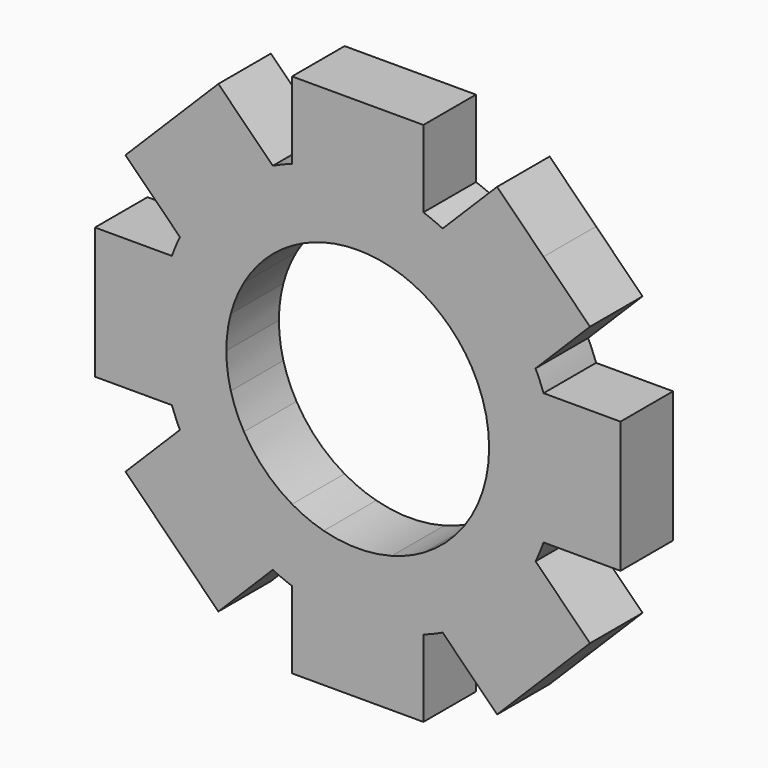
from build123d import *

# Parameters (mm, degrees)
F1_DEPTH = 6.35


with BuildPart() as f1:
    # F0 (on Front) → F1 (new body)
    with BuildSketch(Plane.XZ):
        with BuildLine():
            Line((-25.4, 0), (-19.05, 0))
            ThreePointArc((-19.05, 0), (-18.7756525614, 3.2213926947), (-17.9605122421, 6.35))
            Line((-17.9605122421, 6.35), (-25.4, 6.35))
            Line((-25.4, 6.35), (-25.4, 0))
        make_face()
        with BuildLine():
            ThreePointArc((-17.9605122421, -6.35), (-18.7756525614, -3.2213926947), (-19.05, 0))
            Line((-19.05, 0), (-25.4, 0))
            Line((-25.4, 0), (-25.4, -6.35))
            Line((-25.4, -6.35), (-17.9605122421, -6.35))
        make_face()
        with BuildLine():
            Line((-19.05, 0), (-12.7, 0))
            ThreePointArc((-12.7, 0), (-12.5913497394, 1.6576826412), (-12.2672579939, 3.2870018728))
            Line((-12.2672579939, 3.2870018728), (-15.3302561211, 6.35))
            Line((-15.3302561211, 6.35), (-17.9605122421, 6.35))
            ThreePointArc((-17.9605122421, 6.35), (-18.7756525614, 3.2213926947), (-19.05, 0))
        make_face()
        with BuildLine():
            ThreePointArc((-12.2672579939, -3.2870018728), (-12.5913497394, -1.6576826412), (-12.7, 0))
            Line((-12.7, 0), (-19.05, 0))
            ThreePointArc((-19.05, 0), (-18.7756525614, -3.2213926947), (-17.9605122421, -6.35))
            Line((-17.9605122421, -6.35), (-15.3302561211, -6.35))
            Line((-15.3302561211, -6.35), (-12.2672579939, -3.2870018728))
        make_face()
        with BuildLine():
            ThreePointArc((-17.1901280605, 8.2098719395), (-15.5542598667, 10.9985226281), (-13.4703841816, 13.4703841816))
            Line((-13.4703841816, 13.4703841816), (-17.9605122421, 17.9605122421))
            Line((-17.9605122421, 17.9605122421), (-22.4506403027, 13.4703841816))
            Line((-22.4506403027, 13.4703841816), (-17.1901280605, 8.2098719395))
        make_face()
        with BuildLine():
            Line((-17.9605122421, 17.9605122421), (-13.4703841816, 13.4703841816))
            ThreePointArc((-13.4703841816, 13.4703841816), (-10.9985226281, 15.5542598667), (-8.2098719395, 17.1901280605))
            Line((-8.2098719395, 17.1901280605), (-13.4703841816, 22.4506403027))
            Line((-13.4703841816, 22.4506403027), (-17.9605122421, 17.9605122421))
        make_face()
        with BuildLine():
            Line((-13.4703841816, 13.4703841816), (-8.9802561211, 8.9802561211))
            ThreePointArc((-8.9802561211, 8.9802561211), (-7.7312701484, 10.0755874217), (-6.35, 10.9985226281))
            Line((-6.35, 10.9985226281), (-6.35, 15.3302561211))
            Line((-6.35, 15.3302561211), (-8.2098719395, 17.1901280605))
            ThreePointArc((-8.2098719395, 17.1901280605), (-10.9985226281, 15.5542598667), (-13.4703841816, 13.4703841816))
        make_face()
        with BuildLine():
            ThreePointArc((-10.9985226281, 6.35), (-10.0755874217, 7.7312701484), (-8.9802561211, 8.9802561211))
            Line((-8.9802561211, 8.9802561211), (-13.4703841816, 13.4703841816))
            ThreePointArc((-13.4703841816, 13.4703841816), (-15.5542598667, 10.9985226281), (-17.1901280605, 8.2098719395))
            Line((-17.1901280605, 8.2098719395), (-15.3302561211, 6.35))
            Line((-15.3302561211, 6.35), (-10.9985226281, 6.35))
        make_face()
        with BuildLine():
            ThreePointArc((-3.2870018728, 12.2672579939), (-1.6576826412, 12.5913497394), (0, 12.7))
            Line((0, 12.7), (0, 19.05))
            ThreePointArc((0, 19.05), (-3.2213926947, 18.7756525614), (-6.35, 17.9605122421))
            Line((-6.35, 17.9605122421), (-6.35, 15.3302561211))
            Line((-6.35, 15.3302561211), (-3.2870018728, 12.2672579939))
        make_face()
        with BuildLine():
            ThreePointArc((-6.35, 17.9605122421), (-3.2213926947, 18.7756525614), (0, 19.05))
            Line((0, 19.05), (0, 25.4))
            Line((0, 25.4), (-6.35, 25.4))
            Line((-6.35, 25.4), (-6.35, 17.9605122421))
        make_face()
        with BuildLine():
            Line((-6.35, 15.3302561211), (-6.35, 10.9985226281))
            ThreePointArc((-6.35, 10.9985226281), (-4.860079591, 11.7332700629), (-3.2870018728, 12.2672579939))
            Line((-3.2870018728, 12.2672579939), (-6.35, 15.3302561211))
        make_face()
        with BuildLine():
            ThreePointArc((0, 19.05), (3.2213926947, 18.7756525614), (6.35, 17.9605122421))
            Line((6.35, 17.9605122421), (6.35, 25.4))
            Line((6.35, 25.4), (0, 25.4))
            Line((0, 25.4), (0, 19.05))
        make_face()
        with BuildLine():
            Line((-8.2098719395, 17.1901280605), (-6.35, 15.3302561211))
            Line((-6.35, 15.3302561211), (-6.35, 17.9605122421))
            ThreePointArc((-6.35, 17.9605122421), (-7.2901193866, 17.5999050943), (-8.2098719395, 17.1901280605))
        make_face()
        with BuildLine():
            Line((-17.9605122421, 6.35), (-15.3302561211, 6.35))
            Line((-15.3302561211, 6.35), (-17.1901280605, 8.2098719395))
            ThreePointArc((-17.1901280605, 8.2098719395), (-17.5999050943, 7.2901193866), (-17.9605122421, 6.35))
        make_face()
        with BuildLine():
            ThreePointArc((0, 12.7), (1.6576826412, 12.5913497394), (3.2870018728, 12.2672579939))
            Line((3.2870018728, 12.2672579939), (6.35, 15.3302561211))
            Line((6.35, 15.3302561211), (6.35, 17.9605122421))
            ThreePointArc((6.35, 17.9605122421), (3.2213926947, 18.7756525614), (0, 19.05))
            Line((0, 19.05), (0, 12.7))
        make_face()
        with BuildLine():
            Line((6.35, 17.9605122421), (6.35, 15.3302561211))
            Line((6.35, 15.3302561211), (8.2098719395, 17.1901280605))
            ThreePointArc((8.2098719395, 17.1901280605), (7.2901193866, 17.5999050943), (6.35, 17.9605122421))
        make_face()
        with BuildLine():
            ThreePointArc((3.2870018728, 12.2672579939), (4.860079591, 11.7332700629), (6.35, 10.9985226281))
            Line((6.35, 10.9985226281), (6.35, 15.3302561211))
            Line((6.35, 15.3302561211), (3.2870018728, 12.2672579939))
        make_face()
        with BuildLine():
            ThreePointArc((6.35, 10.9985226281), (7.7312701484, 10.0755874217), (8.9802561211, 8.9802561211))
            Line((8.9802561211, 8.9802561211), (13.4703841816, 13.4703841816))
            ThreePointArc((13.4703841816, 13.4703841816), (10.9985226281, 15.5542598667), (8.2098719395, 17.1901280605))
            Line((8.2098719395, 17.1901280605), (6.35, 15.3302561211))
            Line((6.35, 15.3302561211), (6.35, 10.9985226281))
        make_face()
        with BuildLine():
            ThreePointArc((8.2098719395, 17.1901280605), (10.9985226281, 15.5542598667), (13.4703841816, 13.4703841816))
            Line((13.4703841816, 13.4703841816), (17.9605122421, 17.9605122421))
            Line((17.9605122421, 17.9605122421), (13.4703841816, 22.4506403027))
            Line((13.4703841816, 22.4506403027), (8.2098719395, 17.1901280605))
        make_face()
        with BuildLine():
            Line((17.9605122421, 17.9605122421), (13.4703841816, 13.4703841816))
            ThreePointArc((13.4703841816, 13.4703841816), (15.5542598667, 10.9985226281), (17.1901280605, 8.2098719395))
            Line((17.1901280605, 8.2098719395), (22.4506403027, 13.4703841816))
            Line((22.4506403027, 13.4703841816), (17.9605122421, 17.9605122421))
        make_face()
        with BuildLine():
            ThreePointArc((8.9802561211, 8.9802561211), (10.0755874217, 7.7312701484), (10.9985226281, 6.35))
            Line((10.9985226281, 6.35), (15.3302561211, 6.35))
            Line((15.3302561211, 6.35), (17.1901280605, 8.2098719395))
            ThreePointArc((17.1901280605, 8.2098719395), (15.5542598667, 10.9985226281), (13.4703841816, 13.4703841816))
            Line((13.4703841816, 13.4703841816), (8.9802561211, 8.9802561211))
        make_face()
        with BuildLine():
            ThreePointArc((10.9985226281, 6.35), (12.2672579939, 3.2870018728), (12.7, 0))
            Line((12.7, 0), (19.05, 0))
            ThreePointArc((19.05, 0), (18.7756525614, 3.2213926947), (17.9605122421, 6.35))
            Line((17.9605122421, 6.35), (15.3302561211, 6.35))
            Line((15.3302561211, 6.35), (10.9985226281, 6.35))
        make_face()
        with BuildLine():
            ThreePointArc((17.9605122421, 6.35), (18.7756525614, 3.2213926947), (19.05, 0))
            Line((19.05, 0), (25.4, 0))
            Line((25.4, 0), (25.4, 6.35))
            Line((25.4, 6.35), (17.9605122421, 6.35))
        make_face()
        with BuildLine():
            Line((17.1901280605, 8.2098719395), (15.3302561211, 6.35))
            Line((15.3302561211, 6.35), (17.9605122421, 6.35))
            ThreePointArc((17.9605122421, 6.35), (17.5999050943, 7.2901193866), (17.1901280605, 8.2098719395))
        make_face()
        with BuildLine():
            Line((25.4, 0), (19.05, 0))
            ThreePointArc((19.05, 0), (18.7756525614, -3.2213926947), (17.9605122421, -6.35))
            Line((17.9605122421, -6.35), (25.4, -6.35))
            Line((25.4, -6.35), (25.4, 0))
        make_face()
        with BuildLine():
            Line((19.05, 0), (12.7, 0))
            ThreePointArc((12.7, 0), (12.2672579939, -3.2870018728), (10.9985226281, -6.35))
            Line((10.9985226281, -6.35), (15.3302561211, -6.35))
            Line((15.3302561211, -6.35), (17.9605122421, -6.35))
            ThreePointArc((17.9605122421, -6.35), (18.7756525614, -3.2213926947), (19.05, 0))
        make_face()
        with BuildLine():
            Line((15.3302561211, -6.35), (10.9985226281, -6.35))
            ThreePointArc((10.9985226281, -6.35), (8.9802561211, -8.9802561211), (6.35, -10.9985226281))
            Line((6.35, -10.9985226281), (6.35, -15.3302561211))
            Line((6.35, -15.3302561211), (8.2098719395, -17.1901280605))
            ThreePointArc((8.2098719395, -17.1901280605), (13.4703841816, -13.4703841816), (17.1901280605, -8.2098719395))
            Line((17.1901280605, -8.2098719395), (15.3302561211, -6.35))
        make_face()
        with BuildLine():
            Line((22.4506403027, -13.4703841816), (17.1901280605, -8.2098719395))
            ThreePointArc((17.1901280605, -8.2098719395), (13.4703841816, -13.4703841816), (8.2098719395, -17.1901280605))
            Line((8.2098719395, -17.1901280605), (13.4703841816, -22.4506403027))
            Line((13.4703841816, -22.4506403027), (17.9605122421, -17.9605122421))
            Line((17.9605122421, -17.9605122421), (22.4506403027, -13.4703841816))
        make_face()
        with BuildLine():
            Line((6.35, -15.3302561211), (3.2870018728, -12.2672579939))
            ThreePointArc((3.2870018728, -12.2672579939), (0, -12.7), (-3.2870018728, -12.2672579939))
            Line((-3.2870018728, -12.2672579939), (-6.35, -15.3302561211))
            Line((-6.35, -15.3302561211), (-6.35, -17.9605122421))
            ThreePointArc((-6.35, -17.9605122421), (0, -19.05), (6.35, -17.9605122421))
            Line((6.35, -17.9605122421), (6.35, -15.3302561211))
        make_face()
        with BuildLine():
            Line((-6.35, -15.3302561211), (-6.35, -10.9985226281))
            ThreePointArc((-6.35, -10.9985226281), (-8.9802561211, -8.9802561211), (-10.9985226281, -6.35))
            Line((-10.9985226281, -6.35), (-15.3302561211, -6.35))
            Line((-15.3302561211, -6.35), (-17.1901280605, -8.2098719395))
            ThreePointArc((-17.1901280605, -8.2098719395), (-13.4703841816, -13.4703841816), (-8.2098719395, -17.1901280605))
            Line((-8.2098719395, -17.1901280605), (-6.35, -15.3302561211))
        make_face()
        with BuildLine():
            Line((-13.4703841816, -22.4506403027), (-8.2098719395, -17.1901280605))
            ThreePointArc((-8.2098719395, -17.1901280605), (-13.4703841816, -13.4703841816), (-17.1901280605, -8.2098719395))
            Line((-17.1901280605, -8.2098719395), (-22.4506403027, -13.4703841816))
            Line((-22.4506403027, -13.4703841816), (-13.4703841816, -22.4506403027))
        make_face()
        with BuildLine():
            Line((6.35, -25.4), (6.35, -17.9605122421))
            ThreePointArc((6.35, -17.9605122421), (0, -19.05), (-6.35, -17.9605122421))
            Line((-6.35, -17.9605122421), (-6.35, -25.4))
            Line((-6.35, -25.4), (0, -25.4))
            Line((0, -25.4), (6.35, -25.4))
        make_face()
        with BuildLine():
            Line((6.35, -15.3302561211), (6.35, -10.9985226281))
            ThreePointArc((6.35, -10.9985226281), (4.860079591, -11.7332700629), (3.2870018728, -12.2672579939))
            Line((3.2870018728, -12.2672579939), (6.35, -15.3302561211))
        make_face()
        with BuildLine():
            Line((-6.35, -15.3302561211), (-3.2870018728, -12.2672579939))
            ThreePointArc((-3.2870018728, -12.2672579939), (-4.860079591, -11.7332700629), (-6.35, -10.9985226281))
            Line((-6.35, -10.9985226281), (-6.35, -15.3302561211))
        make_face()
        with BuildLine():
            ThreePointArc((-10.9985226281, -6.35), (-11.7332700629, -4.860079591), (-12.2672579939, -3.2870018728))
            Line((-12.2672579939, -3.2870018728), (-15.3302561211, -6.35))
            Line((-15.3302561211, -6.35), (-10.9985226281, -6.35))
        make_face()
        with BuildLine():
            ThreePointArc((-12.2672579939, 3.2870018728), (-11.7332700629, 4.860079591), (-10.9985226281, 6.35))
            Line((-10.9985226281, 6.35), (-15.3302561211, 6.35))
            Line((-15.3302561211, 6.35), (-12.2672579939, 3.2870018728))
        make_face()
        with BuildLine():
            Line((17.9605122421, -6.35), (15.3302561211, -6.35))
            Line((15.3302561211, -6.35), (17.1901280605, -8.2098719395))
            ThreePointArc((17.1901280605, -8.2098719395), (17.5999050943, -7.2901193866), (17.9605122421, -6.35))
        make_face()
        with BuildLine():
            Line((8.2098719395, -17.1901280605), (6.35, -15.3302561211))
            Line((6.35, -15.3302561211), (6.35, -17.9605122421))
            ThreePointArc((6.35, -17.9605122421), (7.2901193866, -17.5999050943), (8.2098719395, -17.1901280605))
        make_face()
        with BuildLine():
            Line((-6.35, -17.9605122421), (-6.35, -15.3302561211))
            Line((-6.35, -15.3302561211), (-8.2098719395, -17.1901280605))
            ThreePointArc((-8.2098719395, -17.1901280605), (-7.2901193866, -17.5999050943), (-6.35, -17.9605122421))
        make_face()
        with BuildLine():
            Line((-17.1901280605, -8.2098719395), (-15.3302561211, -6.35))
            Line((-15.3302561211, -6.35), (-17.9605122421, -6.35))
            ThreePointArc((-17.9605122421, -6.35), (-17.5999050943, -7.2901193866), (-17.1901280605, -8.2098719395))
        make_face()
    extrude(amount=F1_DEPTH)


solid = f1.part
